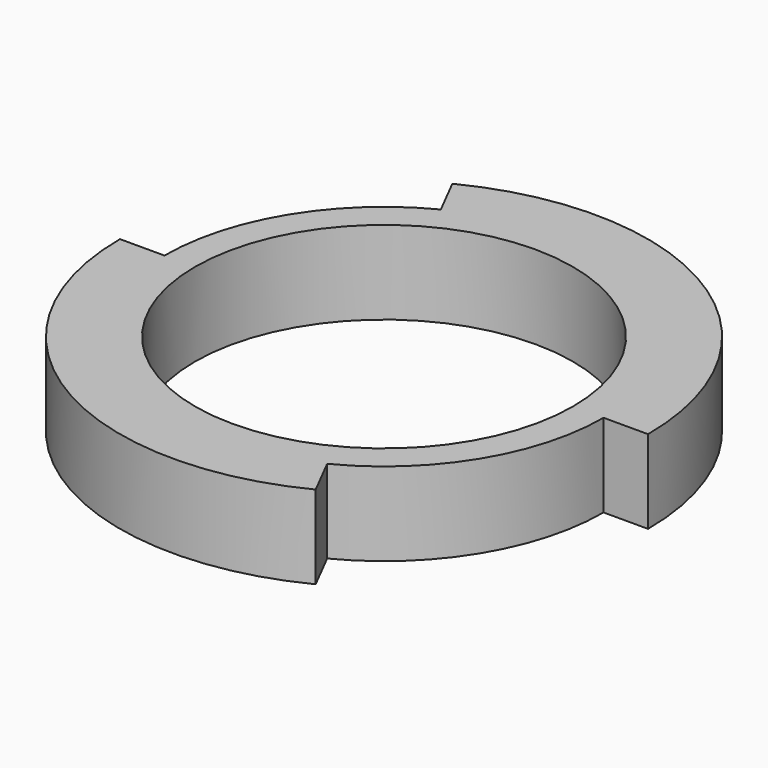
from build123d import *

# Parameters (mm, degrees)
SKETCH009_R     = 9.5
PAD006_DEPTH    = 3
SKETCH010_R     = 6.8
POCKET003_DEPTH = 5
SKETCH013_W     = 1.6
SKETCH013_H     = 3
GROOVE_ANGLE    = -63
SKETCH014_W     = 1.6
SKETCH014_H     = 3
GROOVE001_ANGLE = -63


with BuildPart() as part:
    # Sketch009 → Pad006 (new body)
    with BuildSketch(Plane.XY.offset(1)):
        with Locations((6.5, 5)):
            Circle(SKETCH009_R)
    extrude(amount=-PAD006_DEPTH)

    # Sketch010 (on Face3 of Pad006) → Pocket003 (cut)
    with BuildSketch(Plane(origin=(0, 0, -2), x_dir=(1, 0, 0), z_dir=(0, 0, -1))):
        with Locations((6.5, -5)):
            Circle(SKETCH010_R)
    extrude(amount=-POCKET003_DEPTH, mode=Mode.SUBTRACT)

    # Sketch013 → Groove (revolve, cut)
    with BuildSketch(Plane(origin=(6.5, 5, 0), x_dir=(1, 0, 0), z_dir=(0, -1, 0))):
        with Locations((8.7, -0.5)):
            Rectangle(SKETCH013_W, SKETCH013_H)
    revolve(axis=Axis((6.5, 5, 0), (0, 0, 1)), revolution_arc=GROOVE_ANGLE, mode=Mode.SUBTRACT)

    # Sketch014 → Groove001 (revolve, cut)
    with BuildSketch(Plane(origin=(6.5, 5, 0), x_dir=(1, 0, 0), z_dir=(0, -1, 0))):
        with Locations((-8.7, -0.5)):
            Rectangle(SKETCH014_W, SKETCH014_H)
    revolve(axis=Axis((6.5, 5, 0), (0, 0, 1)), revolution_arc=GROOVE001_ANGLE, mode=Mode.SUBTRACT)


solid = part.part
